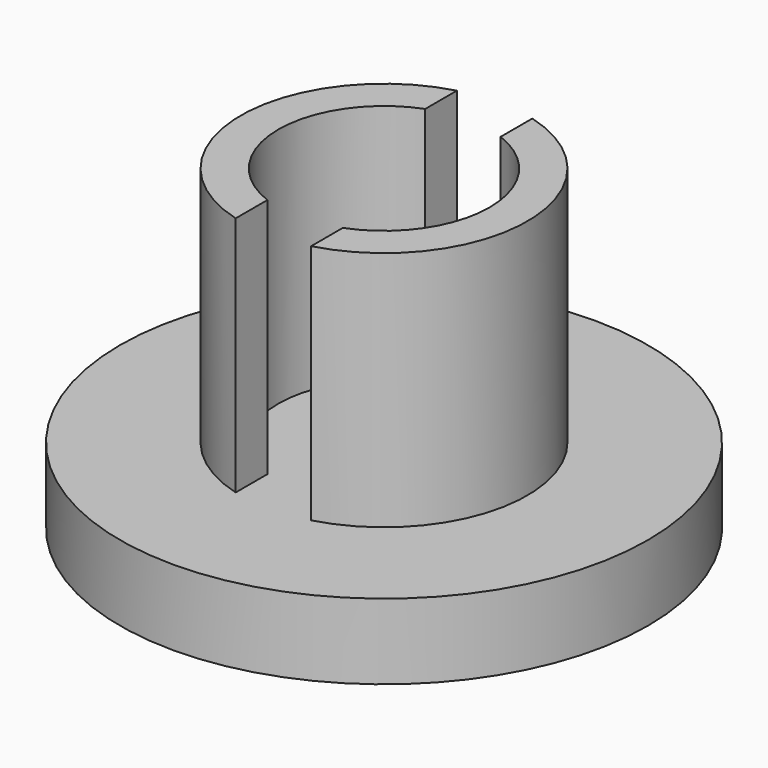
from build123d import *

# Parameters (mm, degrees)
F0_R     = 3.5
F1_DEPTH = 0.5
F2_R     = 1.9
F2_R_2   = 1.4
F3_DEPTH = 3.2
F4_W     = 1
F4_H     = 6.460969
F5_DEPTH = 3.2


with BuildPart() as f1:
    # F0 (on Top) → F1 (new body, symmetric)
    with BuildSketch(Plane.XY):
        Circle(F0_R)
    extrude(amount=F1_DEPTH, both=True)

    # F2 (on face) → F3 (join)
    with BuildSketch(Plane.XY.offset(0.5)):
        Circle(F2_R)
        Circle(F2_R_2, mode=Mode.SUBTRACT)
    extrude(amount=F3_DEPTH)

    # F4 (on face) → F5 (cut, through all)
    with BuildSketch(Plane.XY.offset(3.7)):
        with Locations((0, -0.287181)):
            Rectangle(F4_W, F4_H)
    extrude(amount=-F5_DEPTH, mode=Mode.SUBTRACT)


solid = f1.part
